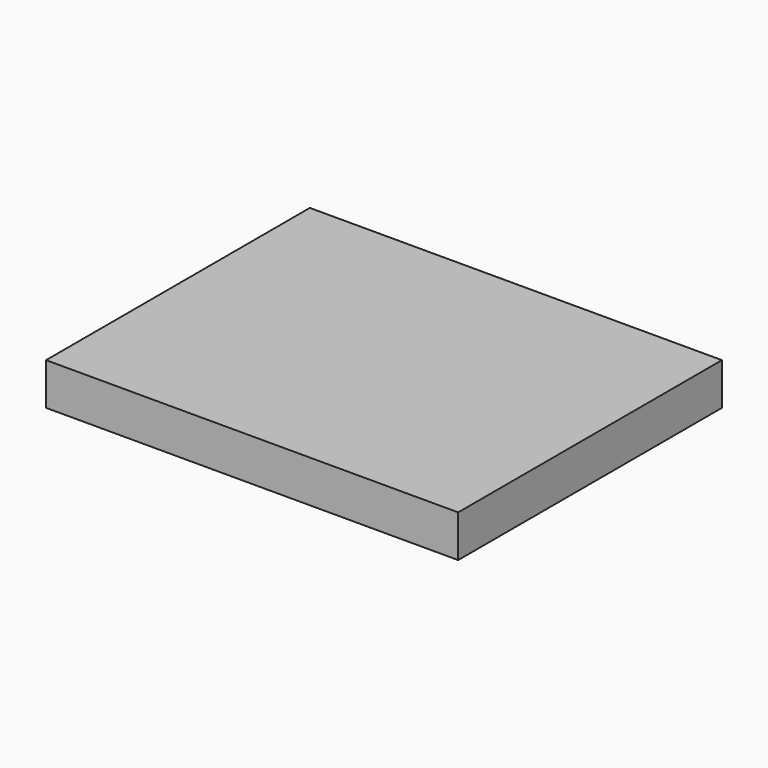
from build123d import *

# Parameters (mm, degrees)
F0_W     = 500
F0_H     = 400
F1_DEPTH = 50
F2_T     = -1
F4_W     = 500
F4_H     = 400
F5_DEPTH = 1


with BuildPart() as f1:
    # F0 (on Top) → F1 (new body)
    with BuildSketch(Plane.XY):
        Rectangle(F0_W, F0_H)
    extrude(amount=F1_DEPTH)

    # F2
    f2_openings = [f1.faces().sort_by_distance(p)[0] for p in [
        (0, 0, 50),
    ]]
    offset(amount=F2_T, openings=f2_openings)

    # F4 (on offset) → F5 (join)
    with BuildSketch(Plane.XY.offset(50)):
        Rectangle(F4_W, F4_H)
    extrude(amount=F5_DEPTH)


solid = f1.part
